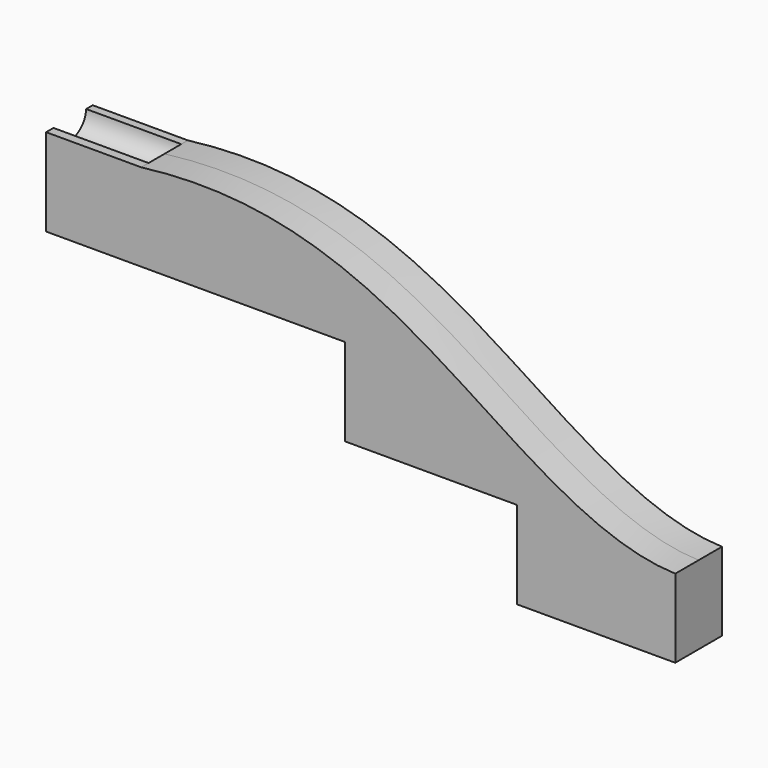
from build123d import *

# Parameters (mm, degrees)
F1_DEPTH = 12.7
F3_DEPTH = 41.402


with BuildPart() as f1:
    # F0 (on Front) → F1 (new body, symmetric)
    with BuildSketch(Plane.XZ):
        with BuildLine():
            add(Edge.make_bspline(
                [(51.1126115401, -51.8118948624), (16.4755377918, -50.7021285594), (-51.8719519593, 2.9951382796), (-124.586850239, 35.434725417), (-181.428774022, 28.3294849442)],
                knots=[0, 0, 0, 0, 0.4746633994, 1, 1, 1, 1], degree=3))
            Line((-181.428774022, 28.3294849442), (-181.428774022, -9.7705150558))
            Line((-181.428774022, -9.7705150558), (-92.7477355699, -9.7705150558))
            Line((-92.7477355699, -9.7705150558), (-92.7477355699, -47.8705150558))
            Line((-92.7477355699, -47.8705150558), (-17.8615278795, -47.8705150558))
            Line((-17.8615278795, -47.8705150558), (-17.8615278795, -85.9705150558))
            Line((-17.8615278795, -85.9705150558), (51.1126115401, -85.9705150558))
            Line((51.1126115401, -85.9705150558), (51.1126115401, -51.8118948624))
        make_face()
    extrude(amount=F1_DEPTH, both=True)

    # F2 (on face) → F3 (join)
    with BuildSketch(Plane(origin=(-181.428774022, 0, 0), x_dir=(0, -1, 0), z_dir=(-1, 0, 0))):
        with BuildLine():
            ThreePointArc((8.6891977116, 28.3294849442), (-0.2190545201, 19.9149866949), (-9.1273067519, 28.3294849442))
            Line((-9.1273067519, 28.3294849442), (-12.7, 28.3294849442))
            Line((-12.7, 28.3294849442), (-12.7, -9.7705150558))
            Line((-12.7, -9.7705150558), (12.7, -9.7705150558))
            Line((12.7, -9.7705150558), (12.7, 28.3294849442))
            Line((12.7, 28.3294849442), (8.6891977116, 28.3294849442))
        make_face()
    extrude(amount=F3_DEPTH)


solid = f1.part
